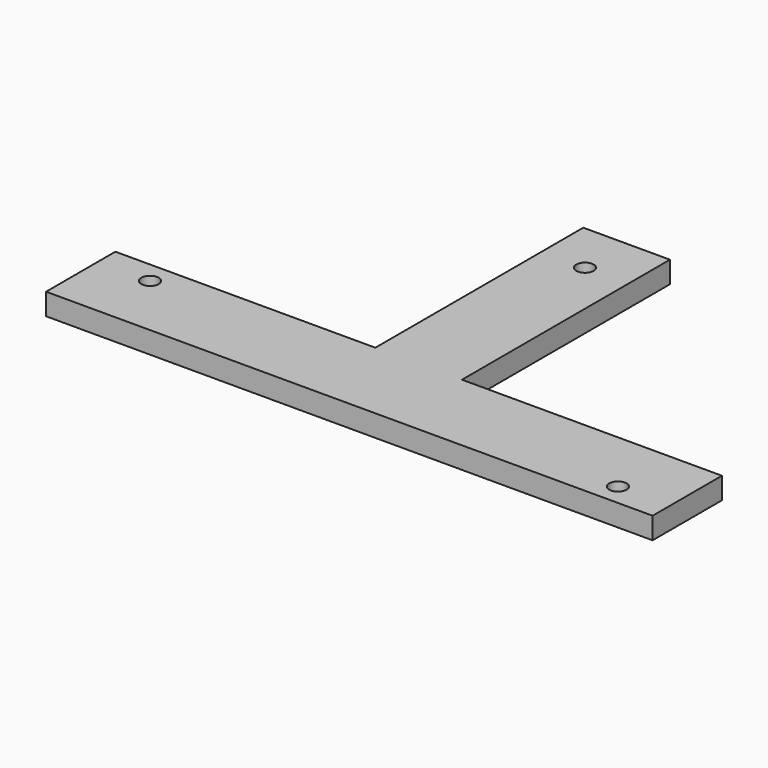
from build123d import *

# Parameters (mm, degrees)
F0_R     = 2
F1_DEPTH = 5


with BuildPart() as f1:
    # F0 (on Top) → F1 (new body)
    with BuildSketch(Plane.XY):
        Polygon((70, -10), (70, 10), (10, 10), (10, 70), (-10, 70), (-10, 10), (-70, 10), (-70, -10), align=None)
        with Locations((-58, 5)):
            Circle(F0_R, mode=Mode.SUBTRACT)
        with Locations((58, -5)):
            Circle(F0_R, mode=Mode.SUBTRACT)
        with Locations((0, 58)):
            Circle(F0_R, mode=Mode.SUBTRACT)
    extrude(amount=F1_DEPTH)


solid = f1.part
